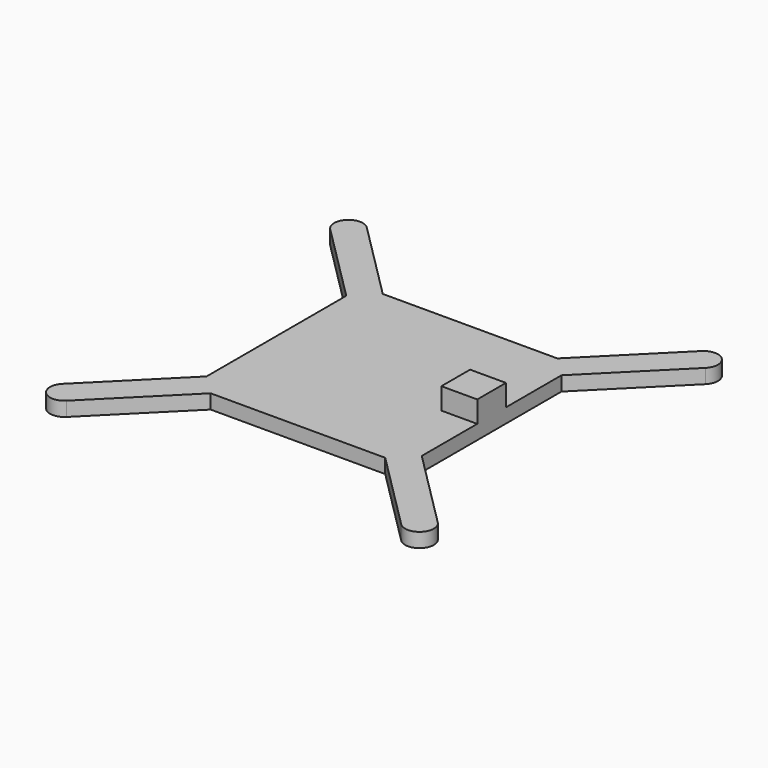
from build123d import *

# Parameters (mm, degrees)
F1_DEPTH = 2
F2_W     = 5
F2_H     = 5
F3_DEPTH = 3


with BuildPart() as f1:
    # F0 (on Top) → F1 (new body)
    with BuildSketch(Plane.XY):
        with BuildLine():
            Line((12.171573, 15), (-12.171573, 15))
            Line((-12.171573, 15), (-23.334524, 26.162951))
            ThreePointArc((-23.334524, 26.162951), (-26.162951, 26.162951), (-26.162951, 23.334524))
            Line((-26.162951, 23.334524), (-15, 12.171573))
            Line((-15, 12.171573), (-15, -12.171573))
            Line((-15, -12.171573), (-26.162951, -23.334524))
            ThreePointArc((-26.162951, -23.334524), (-26.162951, -26.162951), (-23.334524, -26.162951))
            Line((-23.334524, -26.162951), (-12.171573, -15))
            Line((-12.171573, -15), (12.171573, -15))
            Line((12.171573, -15), (23.334524, -26.162951))
            ThreePointArc((23.334524, -26.162951), (26.162951, -26.162951), (26.162951, -23.334524))
            Line((26.162951, -23.334524), (15, -12.171573))
            Line((15, -12.171573), (15, 12.171573))
            Line((15, 12.171573), (26.162951, 23.334524))
            ThreePointArc((26.162951, 23.334524), (26.162951, 26.162951), (23.334524, 26.162951))
            Line((23.334524, 26.162951), (12.171573, 15))
        make_face()
    extrude(amount=F1_DEPTH)

    # F2 (on face) → F3 (join)
    with BuildSketch(Plane.XY.offset(2)):
        with Locations((12.5, 0)):
            Rectangle(F2_W, F2_H)
    extrude(amount=F3_DEPTH)


solid = f1.part
